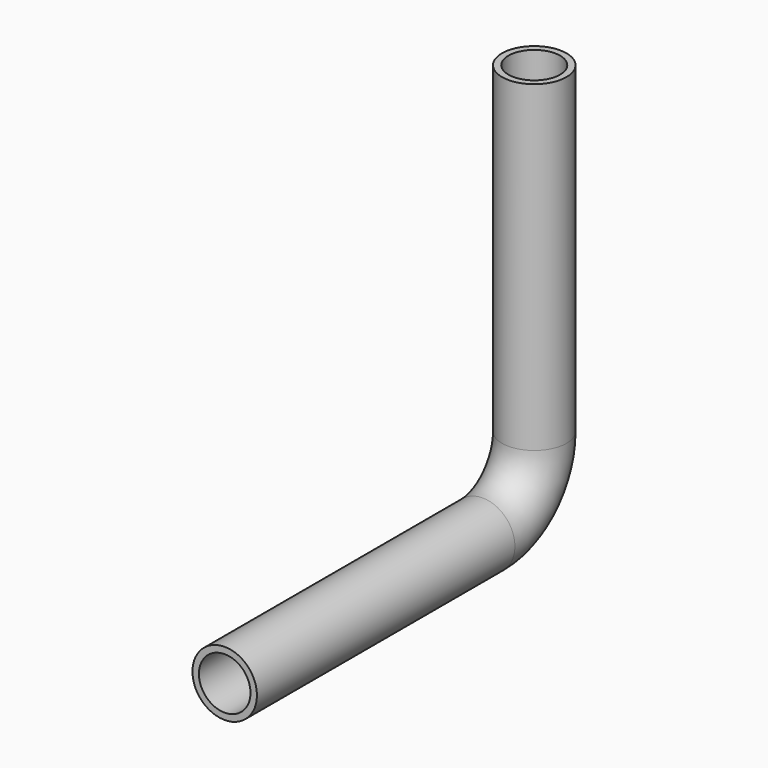
from build123d import *

# Parameters (mm, degrees)
F1_R   = 12.7
F1_R_2 = 10.16


with BuildPart() as f2:
    # F2: sweep along a path in F0
    with BuildLine(Plane.YZ) as f2_path:
        Line((0, 0), (0, -127))
        ThreePointArc((0, -127), (-7.439488, -144.960512), (-25.4, -152.4))
        Line((-25.4, -152.4), (-152.4, -152.4))
    # F1 (on Top) → F2 (sweep)
    with BuildSketch(Plane.XY):
        Circle(F1_R)
        Circle(F1_R_2, mode=Mode.SUBTRACT)
    sweep(path=f2_path.line)


solid = f2.part
